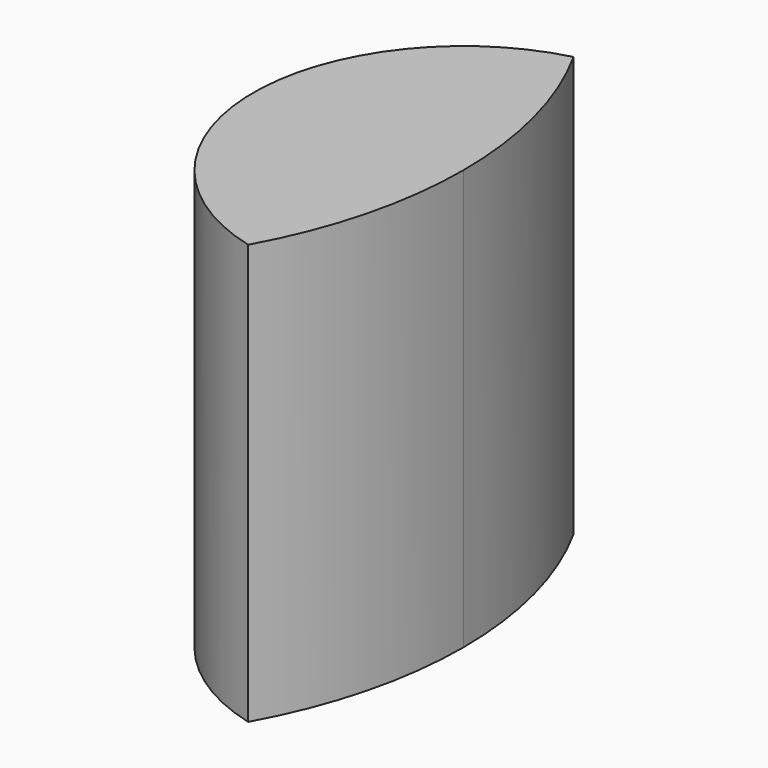
from build123d import *

# Parameters (mm, degrees)
F1_DEPTH = 25.4
F2_DEPTH = 25.4


with BuildPart() as f1:
    # F0 (on Top) → F1 (new body)
    with BuildSketch(Plane.XY):
        with BuildLine():
            ThreePointArc((22.225, -12.296722), (12.7, 0), (22.225, 12.296722))
            ThreePointArc((22.225, 12.296722), (-25.4, 0), (22.225, -12.296722))
        make_face()
        with BuildLine():
            ThreePointArc((22.225, -12.296722), (24.593444, -6.35), (25.4, 0))
            ThreePointArc((25.4, 0), (24.593444, 6.35), (22.225, 12.296722))
            ThreePointArc((22.225, 12.296722), (12.7, 0), (22.225, -12.296722))
        make_face()
    extrude(amount=F1_DEPTH)


with BuildPart() as f2:
    # F0 (on Top) → F2 (new body)
    with BuildSketch(Plane.XY):
        with BuildLine():
            ThreePointArc((22.225, 12.296722), (24.593444, 6.35), (25.4, 0))
            ThreePointArc((25.4, 0), (24.593444, -6.35), (22.225, -12.296722))
            ThreePointArc((22.225, -12.296722), (33.17713, -10.040232), (38.1, 0))
            ThreePointArc((38.1, 0), (33.17713, 10.040232), (22.225, 12.296722))
        make_face()
        with BuildLine():
            ThreePointArc((22.225, -12.296722), (24.593444, -6.35), (25.4, 0))
            ThreePointArc((25.4, 0), (24.593444, 6.35), (22.225, 12.296722))
            ThreePointArc((22.225, 12.296722), (12.7, 0), (22.225, -12.296722))
        make_face()
    extrude(amount=F2_DEPTH)

    # F3: intersect F1
    add(f1.part, mode=Mode.INTERSECT)


solid = f2.part
